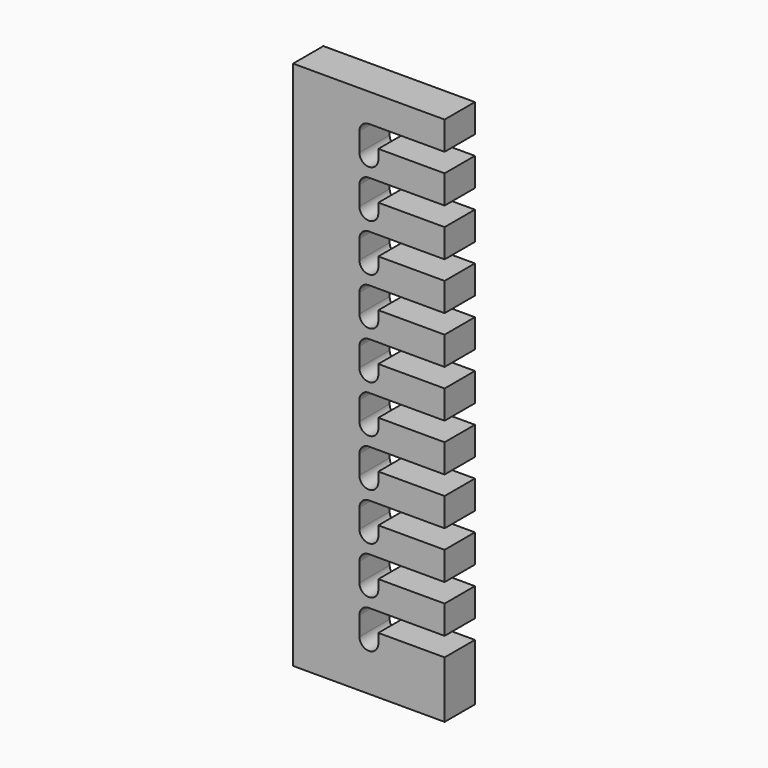
from build123d import *

# Parameters (mm, degrees)
F1_DEPTH = 50.8


with BuildPart() as f1:
    # F0 (on Front) → F1 (new body)
    with BuildSketch(Plane.XZ):
        with BuildLine():
            Line((101.6, 317.5), (101.6, 355.6))
            Line((101.6, 355.6), (-101.6, 355.6))
            Line((-101.6, 355.6), (-101.6, -355.6))
            Line((-101.6, -355.6), (101.6, -355.6))
            Line((101.6, -355.6), (101.6, -279.4))
            Line((101.6, -279.4), (12.7, -279.4))
            Line((12.7, -279.4), (12.7, -292.1))
            ThreePointArc((12.7, -292.1), (0, -304.8), (-12.7, -292.1))
            Line((-12.7, -292.1), (-12.7, -266.7))
            ThreePointArc((-12.7, -266.7), (-8.980256, -257.719744), (0, -254))
            Line((0, -254), (101.6, -254))
            Line((101.6, -254), (101.6, -215.9))
            Line((101.6, -215.9), (12.7, -215.9))
            Line((12.7, -215.9), (12.7, -228.6))
            ThreePointArc((12.7, -228.6), (0, -241.3), (-12.7, -228.6))
            Line((-12.7, -228.6), (-12.7, -203.2))
            ThreePointArc((-12.7, -203.2), (-8.980256, -194.219744), (0, -190.5))
            Line((0, -190.5), (101.6, -190.5))
            Line((101.6, -190.5), (101.6, -152.4))
            Line((101.6, -152.4), (12.7, -152.4))
            Line((12.7, -152.4), (12.7, -165.1))
            ThreePointArc((12.7, -165.1), (0, -177.8), (-12.7, -165.1))
            Line((-12.7, -165.1), (-12.7, -139.7))
            ThreePointArc((-12.7, -139.7), (-8.980256, -130.719744), (0, -127))
            Line((0, -127), (101.6, -127))
            Line((101.6, -127), (101.6, -88.9))
            Line((101.6, -88.9), (12.7, -88.9))
            Line((12.7, -88.9), (12.7, -101.6))
            ThreePointArc((12.7, -101.6), (0, -114.3), (-12.7, -101.6))
            Line((-12.7, -101.6), (-12.7, -76.2))
            ThreePointArc((-12.7, -76.2), (-8.980256, -67.219744), (0, -63.5))
            Line((0, -63.5), (101.6, -63.5))
            Line((101.6, -63.5), (101.6, -25.4))
            Line((101.6, -25.4), (12.7, -25.4))
            Line((12.7, -25.4), (12.7, -38.1))
            ThreePointArc((12.7, -38.1), (0, -50.8), (-12.7, -38.1))
            Line((-12.7, -38.1), (-12.7, -12.7))
            ThreePointArc((-12.7, -12.7), (-8.980256, -3.719744), (0, 0))
            Line((0, 0), (101.6, 0))
            Line((101.6, 0), (101.6, 38.1))
            Line((101.6, 38.1), (12.7, 38.1))
            Line((12.7, 38.1), (12.7, 25.4))
            ThreePointArc((12.7, 25.4), (0, 12.7), (-12.7, 25.4))
            Line((-12.7, 25.4), (-12.7, 50.8))
            ThreePointArc((-12.7, 50.8), (-8.980256, 59.780256), (0, 63.5))
            Line((0, 63.5), (101.6, 63.5))
            Line((101.6, 63.5), (101.6, 101.6))
            Line((101.6, 101.6), (12.7, 101.6))
            Line((12.7, 101.6), (12.7, 88.9))
            ThreePointArc((12.7, 88.9), (0, 76.2), (-12.7, 88.9))
            Line((-12.7, 88.9), (-12.7, 114.3))
            ThreePointArc((-12.7, 114.3), (-8.980256, 123.280256), (0, 127))
            Line((0, 127), (101.6, 127))
            Line((101.6, 127), (101.6, 165.1))
            Line((101.6, 165.1), (12.7, 165.1))
            Line((12.7, 165.1), (12.7, 152.4))
            ThreePointArc((12.7, 152.4), (0, 139.7), (-12.7, 152.4))
            Line((-12.7, 152.4), (-12.7, 177.8))
            ThreePointArc((-12.7, 177.8), (-8.980256, 186.780256), (0, 190.5))
            Line((0, 190.5), (101.6, 190.5))
            Line((101.6, 190.5), (101.6, 228.6))
            Line((101.6, 228.6), (12.7, 228.6))
            Line((12.7, 228.6), (12.7, 215.9))
            ThreePointArc((12.7, 215.9), (0, 203.2), (-12.7, 215.9))
            Line((-12.7, 215.9), (-12.7, 241.3))
            ThreePointArc((-12.7, 241.3), (-8.980256, 250.280256), (0, 254))
            Line((0, 254), (101.6, 254))
            Line((101.6, 254), (101.6, 292.1))
            Line((101.6, 292.1), (12.7, 292.1))
            Line((12.7, 292.1), (12.7, 279.4))
            ThreePointArc((12.7, 279.4), (0, 266.7), (-12.7, 279.4))
            Line((-12.7, 279.4), (-12.7, 304.8))
            ThreePointArc((-12.7, 304.8), (-8.980256, 313.780256), (0, 317.5))
            Line((0, 317.5), (101.6, 317.5))
        make_face()
    extrude(amount=F1_DEPTH)


solid = f1.part
